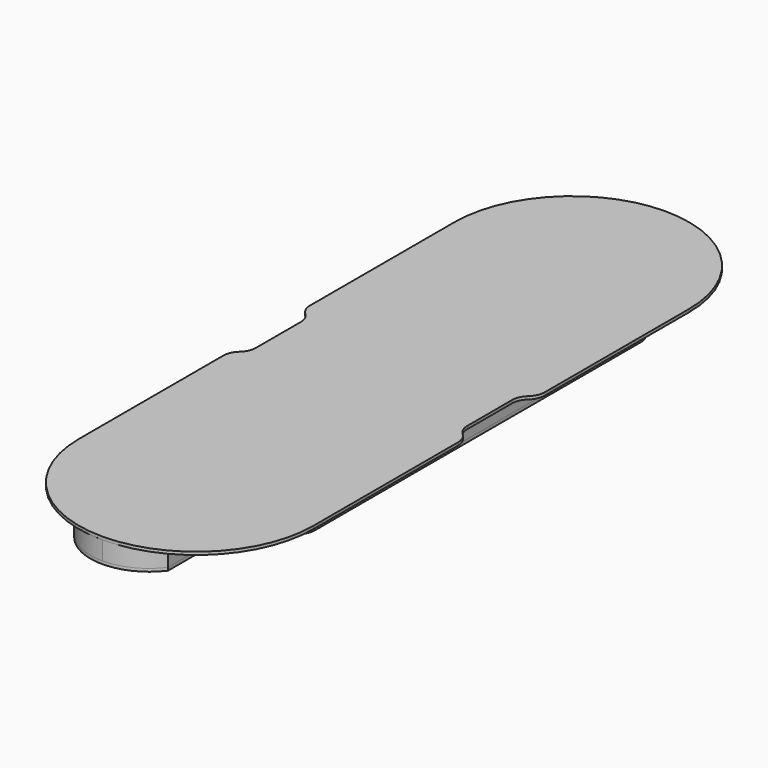
from build123d import *

# Parameters (mm, degrees)
F0_W     = 20
F0_H     = 76.2
F1_DEPTH = 3.175
F2_DEPTH = 20
F3_DEPTH = 20
F4_R     = 19.05
F5_W     = 20
F5_H     = 76.2
F6_DEPTH = 3.175


with BuildPart() as f1:
    # F0 (on Top) → F1 (new body)
    with BuildSketch(Plane.XY):
        with BuildLine():
            ThreePointArc((0, 381), (-28.3980633142, 374.2961266285), (-50.8, 355.6))
            Line((-50.8, 355.6), (-30.8, 355.6))
            Line((-30.8, 355.6), (30.8, 355.6))
            Line((30.8, 355.6), (50.8, 355.6))
            ThreePointArc((50.8, 355.6), (28.3980633142, 374.2961266285), (0, 381))
        make_face()
        with BuildLine():
            Line((-50.8, 279.4), (-50.8, 355.6))
            ThreePointArc((-50.8, 355.6), (-28.3980633142, 374.2961266285), (0, 381))
            ThreePointArc((0, 381), (-89.8025612107, 343.8025612107), (-127, 254))
            Line((-127, 254), (-127, 50.8))
            Line((-127, 50.8), (-114.3, 38.1))
            Line((-114.3, 38.1), (-114.3, 0))
            Line((-114.3, 0), (-114.3, -38.1))
            Line((-114.3, -38.1), (-127, -50.8))
            Line((-127, -50.8), (-127, -254))
            ThreePointArc((-127, -254), (-89.8025612107, -343.8025612107), (0, -381))
            ThreePointArc((0, -381), (-28.3980633142, -374.2961266285), (-50.8, -355.6))
            Line((-50.8, -355.6), (-50.8, -279.4))
            Line((-50.8, -279.4), (-95.7421356237, -234.4578643763))
            ThreePointArc((-95.7421356237, -234.4578643763), (-100.0775906502, -227.9693973998), (-101.6, -220.3157287525))
            Line((-101.6, -220.3157287525), (-101.6, 0))
            Line((-101.6, 0), (-101.6, 220.3157287525))
            ThreePointArc((-101.6, 220.3157287525), (-100.0775906502, 227.9693973998), (-95.7421356237, 234.4578643763))
            Line((-95.7421356237, 234.4578643763), (-50.8, 279.4))
        make_face()
        with BuildLine():
            ThreePointArc((127, 254), (89.8025612107, 343.8025612107), (0, 381))
            ThreePointArc((0, 381), (28.3980633142, 374.2961266285), (50.8, 355.6))
            Line((50.8, 355.6), (50.8, 279.4))
            Line((50.8, 279.4), (95.7421356237, 234.4578643763))
            ThreePointArc((95.7421356237, 234.4578643763), (100.0775906502, 227.9693973998), (101.6, 220.3157287525))
            Line((101.6, 220.3157287525), (101.6, 0))
            Line((101.6, 0), (101.6, -220.3157287525))
            ThreePointArc((101.6, -220.3157287525), (100.0775906502, -227.9693973998), (95.7421356237, -234.4578643763))
            Line((95.7421356237, -234.4578643763), (50.8, -279.4))
            Line((50.8, -279.4), (50.8, -355.6))
            ThreePointArc((50.8, -355.6), (28.3980633142, -374.2961266285), (0, -381))
            ThreePointArc((0, -381), (89.8025612107, -343.8025612107), (127, -254))
            Line((127, -254), (127, -50.8))
            Line((127, -50.8), (114.3, -38.1))
            Line((114.3, -38.1), (114.3, 0))
            Line((114.3, 0), (114.3, 38.1))
            Line((114.3, 38.1), (127, 50.8))
            Line((127, 50.8), (127, 254))
        make_face()
        with BuildLine():
            Line((-30.8, -355.6), (-50.8, -355.6))
            ThreePointArc((-50.8, -355.6), (-28.3980633142, -374.2961266285), (0, -381))
            ThreePointArc((0, -381), (28.3980633142, -374.2961266285), (50.8, -355.6))
            Line((50.8, -355.6), (30.8, -355.6))
            Line((30.8, -355.6), (-30.8, -355.6))
        make_face()
        Polygon((30.8, 355.6), (-30.8, 355.6), (-30.8, 279.4), (-36.6578643763, 265.2578643763), (-81.6, 220.3157287525), (-81.6, 0), (-81.6, -220.3157287525), (-36.6578643763, -265.2578643763), (-30.8, -279.4), (-30.8, -355.6), (30.8, -355.6), (30.8, -279.4), (36.6578643763, -265.2578643763), (81.6, -220.3157287525), (81.6, 0), (81.6, 220.3157287525), (36.6578643763, 265.2578643763), (30.8, 279.4), align=None)
        with Locations((-40.8, 317.5)):
            Rectangle(F0_W, F0_H)
        Polygon((-30.8, 279.4), (-50.8, 279.4), (-36.6578643763, 265.2578643763), align=None)
        Polygon((-36.6578643763, 265.2578643763), (-50.8, 279.4), (-95.7421356237, 234.4578643763), (-81.6, 220.3157287525), align=None)
        with BuildLine():
            Line((-81.6, 220.3157287525), (-95.7421356237, 234.4578643763))
            ThreePointArc((-95.7421356237, 234.4578643763), (-100.0775906502, 227.9693973998), (-101.6, 220.3157287525))
            Line((-101.6, 220.3157287525), (-81.6, 220.3157287525))
        make_face()
        with Locations((40.8, 317.5)):
            Rectangle(F0_W, F0_H)
        Polygon((50.8, 279.4), (30.8, 279.4), (36.6578643763, 265.2578643763), align=None)
        Polygon((95.7421356237, 234.4578643763), (50.8, 279.4), (36.6578643763, 265.2578643763), (81.6, 220.3157287525), align=None)
        with BuildLine():
            ThreePointArc((101.6, 220.3157287525), (100.0775906502, 227.9693973998), (95.7421356237, 234.4578643763))
            Line((95.7421356237, 234.4578643763), (81.6, 220.3157287525))
            Line((81.6, 220.3157287525), (101.6, 220.3157287525))
        make_face()
        with BuildLine():
            Line((-95.7421356237, -234.4578643763), (-81.6, -220.3157287525))
            Line((-81.6, -220.3157287525), (-101.6, -220.3157287525))
            ThreePointArc((-101.6, -220.3157287525), (-100.0775906502, -227.9693973998), (-95.7421356237, -234.4578643763))
        make_face()
        Polygon((-36.6578643763, -265.2578643763), (-81.6, -220.3157287525), (-95.7421356237, -234.4578643763), (-50.8, -279.4), align=None)
        Polygon((-30.8, -279.4), (-36.6578643763, -265.2578643763), (-50.8, -279.4), align=None)
        with Locations((-40.8, -317.5)):
            Rectangle(F0_W, F0_H)
        with Locations((40.8, -317.5)):
            Rectangle(F0_W, F0_H)
        Polygon((50.8, -279.4), (36.6578643763, -265.2578643763), (30.8, -279.4), align=None)
        Polygon((95.7421356237, -234.4578643763), (81.6, -220.3157287525), (36.6578643763, -265.2578643763), (50.8, -279.4), align=None)
        with BuildLine():
            Line((101.6, -220.3157287525), (81.6, -220.3157287525))
            Line((81.6, -220.3157287525), (95.7421356237, -234.4578643763))
            ThreePointArc((95.7421356237, -234.4578643763), (100.0775906502, -227.9693973998), (101.6, -220.3157287525))
        make_face()
        Polygon((-81.6, 0), (-81.6, 220.3157287525), (-101.6, 220.3157287525), (-101.6, 0), (-101.6, -220.3157287525), (-81.6, -220.3157287525), align=None)
        Polygon((101.6, 220.3157287525), (81.6, 220.3157287525), (81.6, 0), (81.6, -220.3157287525), (101.6, -220.3157287525), (101.6, 0), align=None)
    extrude(amount=F1_DEPTH)

    # F4
    f4_edges = [f1.edges().sort_by_distance(p)[0] for p in [
        (127, -50.8, 1.5875),
        (114.3, -38.1, 1.5875),
        (114.3, 38.1, 1.5875),
        (127, 50.8, 1.5875),
        (-127, -50.8, 1.5875),
        (-114.3, -38.1, 1.5875),
        (-114.3, 38.1, 1.5875),
        (-127, 50.8, 1.5875),
    ]]
    fillet(f4_edges, radius=F4_R)


with BuildPart() as f2:
    # F0 (on Top) → F2 (new body)
    with BuildSketch(Plane.XY):
        with Locations((-40.8, 317.5)):
            Rectangle(F0_W, F0_H)
    extrude(amount=-F2_DEPTH)


with BuildPart() as f2b:
    # F0 (on Top) → F2, piece 2 (new body)
    with BuildSketch(Plane.XY):
        with Locations((40.8, 317.5)):
            Rectangle(F0_W, F0_H)
    extrude(amount=-F2_DEPTH)


with BuildPart() as f2c:
    # F0 (on Top) → F2, piece 3 (new body)
    with BuildSketch(Plane.XY):
        Polygon((95.7421356237, 234.4578643763), (50.8, 279.4), (36.6578643763, 265.2578643763), (81.6, 220.3157287525), align=None)
    extrude(amount=-F2_DEPTH)


with BuildPart() as f2d:
    # F0 (on Top) → F2, piece 4 (new body)
    with BuildSketch(Plane.XY):
        Polygon((-36.6578643763, 265.2578643763), (-50.8, 279.4), (-95.7421356237, 234.4578643763), (-81.6, 220.3157287525), align=None)
    extrude(amount=-F2_DEPTH)


with BuildPart() as f2e:
    # F0 (on Top) → F2, piece 5 (new body)
    with BuildSketch(Plane.XY):
        Polygon((-81.6, 0), (-81.6, 220.3157287525), (-101.6, 220.3157287525), (-101.6, 0), (-101.6, -220.3157287525), (-81.6, -220.3157287525), align=None)
    extrude(amount=-F2_DEPTH)


with BuildPart() as f2f:
    # F0 (on Top) → F2, piece 6 (new body)
    with BuildSketch(Plane.XY):
        Polygon((101.6, 220.3157287525), (81.6, 220.3157287525), (81.6, 0), (81.6, -220.3157287525), (101.6, -220.3157287525), (101.6, 0), align=None)
    extrude(amount=-F2_DEPTH)


with BuildPart() as f2g:
    # F0 (on Top) → F2, piece 7 (new body)
    with BuildSketch(Plane.XY):
        Polygon((-36.6578643763, -265.2578643763), (-81.6, -220.3157287525), (-95.7421356237, -234.4578643763), (-50.8, -279.4), align=None)
        Polygon((-36.6578643763, -265.2578643763), (-81.6, -220.3157287525), (-95.7421356237, -234.4578643763), (-50.8, -279.4), align=None)
    extrude(amount=-F2_DEPTH)


with BuildPart() as f2h:
    # F0 (on Top) → F2, piece 8 (new body)
    with BuildSketch(Plane.XY):
        Polygon((95.7421356237, -234.4578643763), (81.6, -220.3157287525), (36.6578643763, -265.2578643763), (50.8, -279.4), align=None)
        Polygon((95.7421356237, -234.4578643763), (81.6, -220.3157287525), (36.6578643763, -265.2578643763), (50.8, -279.4), align=None)
    extrude(amount=-F2_DEPTH)


with BuildPart() as f2i:
    # F0 (on Top) → F2, piece 9 (new body)
    with BuildSketch(Plane.XY):
        with Locations((40.8, -317.5)):
            Rectangle(F0_W, F0_H)
        with Locations((40.8, -317.5)):
            Rectangle(F0_W, F0_H)
    extrude(amount=-F2_DEPTH)


with BuildPart() as f2j:
    # F0 (on Top) → F2, piece 10 (new body)
    with BuildSketch(Plane.XY):
        with Locations((-40.8, -317.5)):
            Rectangle(F0_W, F0_H)
        with Locations((-40.8, -317.5)):
            Rectangle(F0_W, F0_H)
    extrude(amount=-F2_DEPTH)


with BuildPart() as f3:
    # F0 (on Top) → F3 (new body)
    with BuildSketch(Plane.XY):
        with BuildLine():
            ThreePointArc((0, 381), (-28.3980633142, 374.2961266285), (-50.8, 355.6))
            Line((-50.8, 355.6), (-30.8, 355.6))
            Line((-30.8, 355.6), (30.8, 355.6))
            Line((30.8, 355.6), (50.8, 355.6))
            ThreePointArc((50.8, 355.6), (28.3980633142, 374.2961266285), (0, 381))
        make_face()
    extrude(amount=-F3_DEPTH)


with BuildPart() as f3b:
    # F0 (on Top) → F3, piece 2 (new body)
    with BuildSketch(Plane.XY):
        Polygon((50.8, 279.4), (30.8, 279.4), (36.6578643763, 265.2578643763), align=None)
    extrude(amount=-F3_DEPTH)


with BuildPart() as f3c:
    # F0 (on Top) → F3, piece 3 (new body)
    with BuildSketch(Plane.XY):
        with BuildLine():
            ThreePointArc((101.6, 220.3157287525), (100.0775906502, 227.9693973998), (95.7421356237, 234.4578643763))
            Line((95.7421356237, 234.4578643763), (81.6, 220.3157287525))
            Line((81.6, 220.3157287525), (101.6, 220.3157287525))
        make_face()
    extrude(amount=-F3_DEPTH)


with BuildPart() as f3d:
    # F0 (on Top) → F3, piece 4 (new body)
    with BuildSketch(Plane.XY):
        with BuildLine():
            Line((-81.6, 220.3157287525), (-95.7421356237, 234.4578643763))
            ThreePointArc((-95.7421356237, 234.4578643763), (-100.0775906502, 227.9693973998), (-101.6, 220.3157287525))
            Line((-101.6, 220.3157287525), (-81.6, 220.3157287525))
        make_face()
    extrude(amount=-F3_DEPTH)


with BuildPart() as f3e:
    # F0 (on Top) → F3, piece 5 (new body)
    with BuildSketch(Plane.XY):
        Polygon((-30.8, 279.4), (-50.8, 279.4), (-36.6578643763, 265.2578643763), align=None)
    extrude(amount=-F3_DEPTH)


with BuildPart() as f3f:
    # F0 (on Top) → F3, piece 6 (new body)
    with BuildSketch(Plane.XY):
        with BuildLine():
            Line((101.6, -220.3157287525), (81.6, -220.3157287525))
            Line((81.6, -220.3157287525), (95.7421356237, -234.4578643763))
            ThreePointArc((95.7421356237, -234.4578643763), (100.0775906502, -227.9693973998), (101.6, -220.3157287525))
        make_face()
    extrude(amount=-F3_DEPTH)


with BuildPart() as f3g:
    # F0 (on Top) → F3, piece 7 (new body)
    with BuildSketch(Plane.XY):
        with BuildLine():
            Line((-30.8, -355.6), (-50.8, -355.6))
            ThreePointArc((-50.8, -355.6), (-28.3980633142, -374.2961266285), (0, -381))
            ThreePointArc((0, -381), (28.3980633142, -374.2961266285), (50.8, -355.6))
            Line((50.8, -355.6), (30.8, -355.6))
            Line((30.8, -355.6), (-30.8, -355.6))
        make_face()
    extrude(amount=-F3_DEPTH)


with BuildPart() as f3h:
    # F0 (on Top) → F3, piece 8 (new body)
    with BuildSketch(Plane.XY):
        Polygon((50.8, -279.4), (36.6578643763, -265.2578643763), (30.8, -279.4), align=None)
    extrude(amount=-F3_DEPTH)


with BuildPart() as f3i:
    # F0 (on Top) → F3, piece 9 (new body)
    with BuildSketch(Plane.XY):
        Polygon((-30.8, -279.4), (-36.6578643763, -265.2578643763), (-50.8, -279.4), align=None)
    extrude(amount=-F3_DEPTH)


with BuildPart() as f3j:
    # F0 (on Top) → F3, piece 10 (new body)
    with BuildSketch(Plane.XY):
        with BuildLine():
            Line((-95.7421356237, -234.4578643763), (-81.6, -220.3157287525))
            Line((-81.6, -220.3157287525), (-101.6, -220.3157287525))
            ThreePointArc((-101.6, -220.3157287525), (-100.0775906502, -227.9693973998), (-95.7421356237, -234.4578643763))
        make_face()
    extrude(amount=-F3_DEPTH)


with BuildPart() as f6:
    # F5 (on face) → F6 (new body)
    with BuildSketch(Plane(origin=(0, 0, -20), x_dir=(1, 0, 0), z_dir=(0, 0, -1))):
        with BuildLine():
            ThreePointArc((-50.8, -355.6), (0, -381), (50.8, -355.6))
            Line((50.8, -355.6), (30.8, -355.6))
            Line((30.8, -355.6), (30.8, -279.4))
            Line((30.8, -279.4), (50.8, -279.4))
            Line((50.8, -279.4), (95.7421356237, -234.4578643763))
            ThreePointArc((95.7421356237, -234.4578643763), (100.0775906502, -227.9693973998), (101.6, -220.3157287525))
            Line((101.6, -220.3157287525), (101.6, 220.3157287525))
            ThreePointArc((101.6, 220.3157287525), (100.0775906502, 227.9693973998), (95.7421356237, 234.4578643763))
            Line((95.7421356237, 234.4578643763), (50.8, 279.4))
            Line((50.8, 279.4), (50.8, 355.6))
            ThreePointArc((50.8, 355.6), (0, 381), (-50.8, 355.6))
            Line((-50.8, 355.6), (-50.8, 279.4))
            Line((-50.8, 279.4), (-95.7421356237, 234.4578643763))
            ThreePointArc((-95.7421356237, 234.4578643763), (-100.0775906502, 227.9693973998), (-101.6, 220.3157287525))
            Line((-101.6, 220.3157287525), (-101.6, -220.3157287525))
            ThreePointArc((-101.6, -220.3157287525), (-100.0775906502, -227.9693973998), (-95.7421356237, -234.4578643763))
            Line((-95.7421356237, -234.4578643763), (-50.8, -279.4))
            Line((-50.8, -279.4), (-50.8, -355.6))
        make_face()
        with Locations((40.8, -317.5)):
            Rectangle(F5_W, F5_H)
    extrude(amount=F6_DEPTH)


solid = Compound([f1.part, f2.part, f2b.part, f2c.part, f2d.part, f2e.part, f2f.part, f2g.part, f2h.part, f2i.part, f2j.part, f3.part, f3b.part, f3c.part, f3d.part, f3e.part, f3f.part, f3g.part, f3h.part, f3i.part, f3j.part, f6.part])
